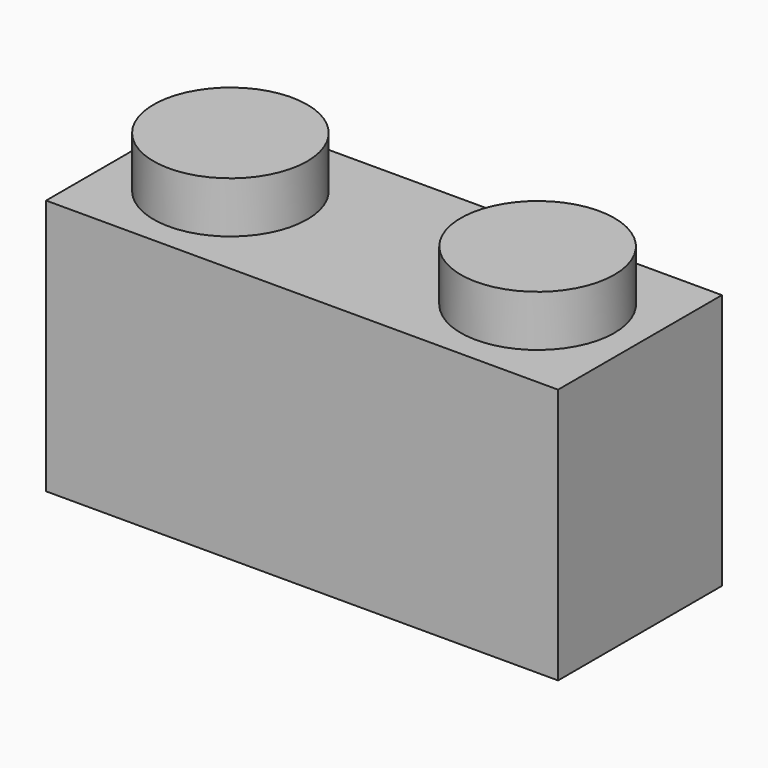
from build123d import *

# Parameters (mm, degrees)
F0_W     = 10
F0_H     = 4
F1_DEPTH = 5
F2_R     = 1.5
F3_DEPTH = 1
F4_W     = 9
F4_H     = 3
F5_DEPTH = 4


with BuildPart() as f1:
    # F0 (on Top) → F1 (new body)
    with BuildSketch(Plane.XY):
        Rectangle(F0_W, F0_H)
    extrude(amount=F1_DEPTH)

    # F2 (on face) → F3 (join)
    with BuildSketch(Plane.XY.offset(5)):
        with Locations((-3, 0)):
            Circle(F2_R)
        with Locations((3, 0)):
            Circle(F2_R)
    extrude(amount=F3_DEPTH)

    # F4 (on Top) → F5 (cut)
    with BuildSketch(Plane.XY):
        Rectangle(F4_W, F4_H)
    extrude(amount=F5_DEPTH, mode=Mode.SUBTRACT)


solid = f1.part
